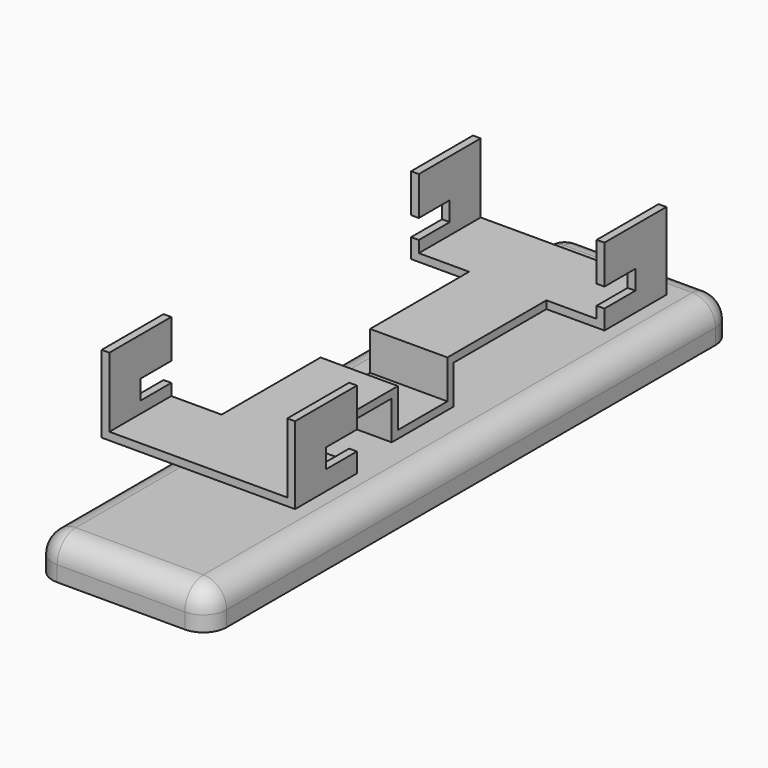
from build123d import *

# Parameters (mm, degrees)
F0_W          = 28.575
F0_H          = 107.95
F1_DEPTH      = 6.35
F2_R          = 3.81
F8_DEPTH      = 15.875
F8_DEPTH_BACK = 15.875
F9_W          = 9.525
F9_H          = 6.35
F9_W_2        = 29.21
F9_H_2        = 11.43
F10_DEPTH     = 92.076
F12_DEPTH     = 7.62


with BuildPart() as f1:
    # F0 (on Top) → F1 (new body)
    with BuildSketch(Plane.XY):
        with Locations((14.2875, 53.975)):
            Rectangle(F0_W, F0_H)
    extrude(amount=F1_DEPTH)

    # F2
    f2_edges = [f1.edges().sort_by_distance(p)[0] for p in [
        (28.575, 0, 3.175),
        (0, 0, 3.175),
        (28.575, 107.95, 3.175),
        (0, 107.95, 3.175),
        (0, 53.975, 6.35),
        (14.2875, 0, 6.35),
        (28.575, 53.975, 6.35),
        (14.2875, 107.95, 6.35),
    ]]
    fillet(f2_edges, radius=F2_R)

    # F7 (on 3pt) → F8 (join, two sides)
    with BuildSketch(Plane.YZ.offset(14.2875)) as f8_sk:
        Polygon((28.575, 25.4), (15.875, 25.4), (15.875, 12.7), (47.625, 12.7), (47.625, 6.35), (53.975, 6.35), (60.325, 6.35), (60.325, 12.7), (92.075, 12.7), (92.075, 25.4), (79.375, 25.4), (79.375, 19.05), (85.725, 19.05), (85.725, 15.875), (79.375, 15.875), (79.375, 13.97), (59.055, 13.97), (59.055, 7.62), (48.895, 7.62), (48.895, 13.97), (28.575, 13.97), (28.575, 15.875), (22.225, 15.875), (22.225, 19.05), (28.575, 19.05), align=None)
    extrude(amount=-F8_DEPTH)
    extrude(f8_sk.sketch, amount=F8_DEPTH_BACK)

    # F9 (on face) → F10 (cut, through all)
    with BuildSketch(Plane.XZ.offset(-15.875)):
        with Locations((3.175, 9.525)):
            Rectangle(F9_W, F9_H)
        with Locations((14.2875, 19.685)):
            Rectangle(F9_W_2, F9_H_2)
        with Locations((25.4, 9.525)):
            Rectangle(F9_W, F9_H)
    extrude(amount=-F10_DEPTH, mode=Mode.SUBTRACT)

    # F11 (on face) → F12 (cut, through all)
    with BuildSketch(Plane.XY.offset(13.97)):
        Polygon((7.9375, 48.895), (-1.5875, 48.895), (-1.5875, 28.575), (-0.3175, 28.575), (7.9375, 28.575), align=None)
        Polygon((-0.3175, 79.375), (-1.5875, 79.375), (-1.5875, 59.055), (7.9375, 59.055), (7.9375, 79.375), align=None)
        Polygon((30.1625, 48.895), (20.6375, 48.895), (20.6375, 28.575), (28.8925, 28.575), (30.1625, 28.575), align=None)
        Polygon((20.6375, 79.375), (20.6375, 59.055), (30.1625, 59.055), (30.1625, 79.375), (28.8925, 79.375), align=None)
    extrude(amount=-F12_DEPTH, mode=Mode.SUBTRACT)


solid = f1.part
